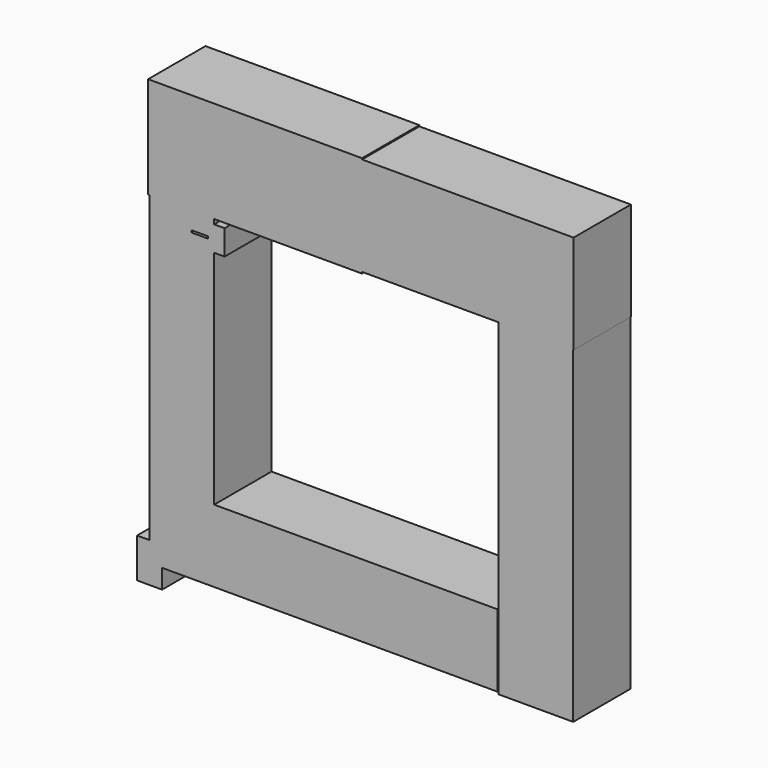
from build123d import *

# Parameters (mm, degrees)
F0_W     = 75.805991888
F0_H     = 35.9990932047
F1_DEPTH = 25.4
F3_W     = 3.6910921335
F3_H     = 8.858628571
F3_W_2   = 4.4293105602
F3_H_2   = 7.0130825043
F4_DEPTH = 25.4
F5_DEPTH = 25.4
F6_W     = 26.3966843486
F6_H     = 116.8616563082
F7_DEPTH = 25.4
F8_W     = 123.443312943
F8_H     = 25.7022343576
F9_DEPTH = 25.4


with BuildPart() as f1:
    # F0 (on Front) → F1 (new body)
    with BuildSketch(Plane.XZ):
        with Locations((-37.902995944, 57.8962471336)):
            Rectangle(F0_W, F0_H)
    extrude(amount=F1_DEPTH)

    # F3 (on Front) → F4 (join)
    with BuildSketch(Plane.XZ):
        Polygon((-60.510866344, 33.7904244661), (-54.6051189303, 33.7904244661), (-54.6051189303, 33.0522060394), (-60.510866344, 33.0522060394), (-60.510866344, 29.3611101806), (-52.3904636502, 29.3611101806), (-52.3904636502, 38.2197387516), (-60.510866344, 38.2197387516), align=None)
        Polygon((-60.510866344, 33.0522060394), (-60.510866344, 33.7904244661), (-60.510866344, 38.2197387516), (-52.3904636502, 38.2197387516), (-52.3904636502, 59.6280917525), (-75.2752497792, 59.6280917525), (-75.2752497792, -67.7146911621), (-70.845939219, -67.7146911621), (-70.845939219, -74.7277736664), (-52.3904636502, -74.7277736664), (-52.3904636502, 29.3611101806), (-60.510866344, 29.3611101806), align=None)
        with Locations((-50.5449175835, 33.7904244661)):
            Rectangle(F3_W, F3_H)
        with Locations((-73.0605944991, -71.2212324142)):
            Rectangle(F3_W_2, F3_H_2)
        Polygon((-70.845939219, -81.7408561707), (-70.845939219, -74.7277736664), (-75.2752497792, -74.7277736664), (-75.2752497792, -67.7146911621), (-79.7045603395, -67.7146911621), (-79.7045603395, -81.7408561707), align=None)
    extrude(amount=F4_DEPTH)

    # F2 (on Front) → F5 (join)
    with BuildSketch(Plane.XZ):
        Polygon((74.952326715, 40.4343977571), (74.952326715, 75.4998028278), (0, 75.4998028278), (0, 40.4343977571), (25.4916474223, 40.4343977571), align=None)
    extrude(amount=F5_DEPTH)

    # F6 (on Front) → F7 (join)
    with BuildSketch(Plane.XZ):
        with Locations((61.6374202073, -17.1837881207)):
            Rectangle(F6_W, F6_H)
    extrude(amount=F7_DEPTH)

    # F8 (on Front) → F9 (join)
    with BuildSketch(Plane.XZ):
        with Locations((-13.6707611382, -62.0693061501)):
            Rectangle(F8_W, F8_H)
    extrude(amount=F9_DEPTH)


solid = f1.part
